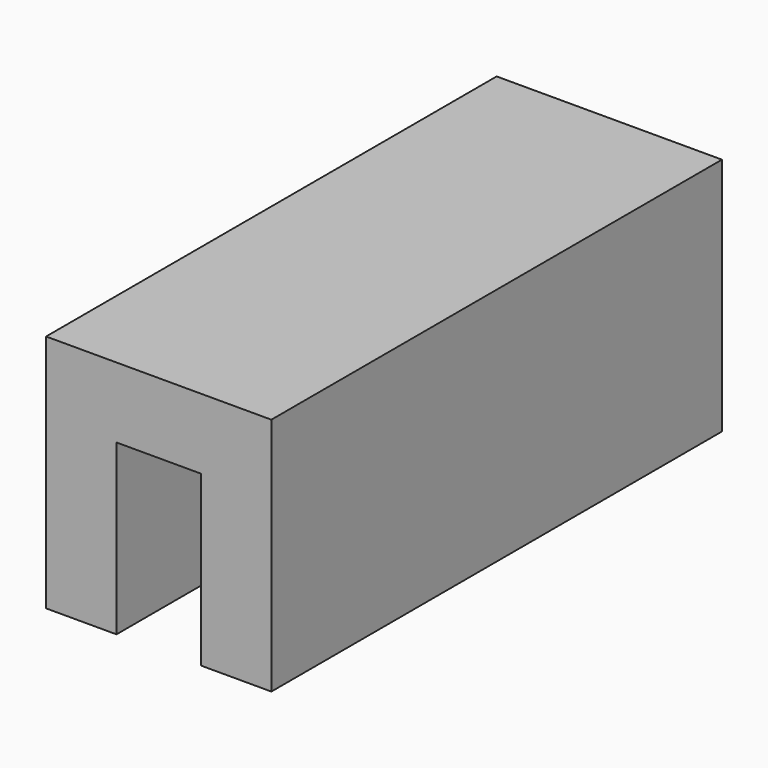
from build123d import *

# Parameters (mm, degrees)
F1_DEPTH = 6096
F2_DEPTH = 6096.001


with BuildPart() as f1:
    # F0 (on Front) → F1 (new body)
    with BuildSketch(Plane.XZ):
        Polygon((1219.2, 1295.4), (-1219.2, 1295.4), (-1219.2, -1295.4), (-457.2, -1295.4), (-457.2, 533.4), (0, 533.4), (457.2, 533.4), (457.2, -1295.4), (1219.2, -1295.4), align=None)
        Polygon((-457.2, 533.4), (-457.2, -1295.4), (454.852939, -1295.4), (457.2, -1295.4), (457.2, 533.4), (0, 533.4), align=None)
    extrude(amount=F1_DEPTH)

    # F0 (on Front) → F2 (cut, through all)
    with BuildSketch(Plane.XZ):
        Polygon((-457.2, 533.4), (-457.2, -1295.4), (454.852939, -1295.4), (457.2, -1295.4), (457.2, 533.4), (0, 533.4), align=None)
    extrude(amount=F2_DEPTH, mode=Mode.SUBTRACT)


solid = f1.part
